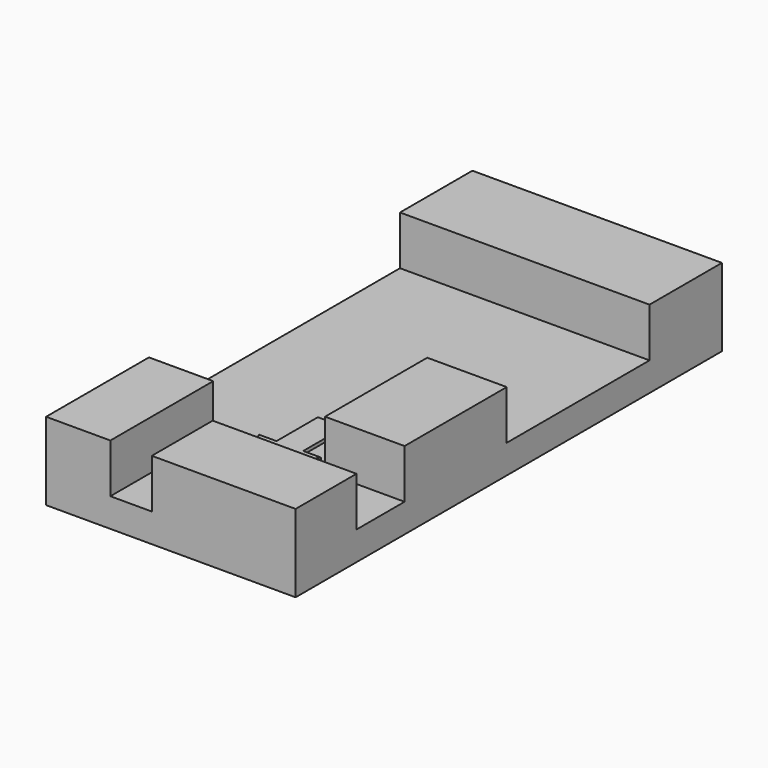
from build123d import *

# Parameters (mm, degrees)
F0_W     = 14.75
F0_H     = 31.5
F1_DEPTH = 1.7
F2_W     = 14.75
F2_H     = 5.35
F2_W_2   = 8.5
F2_H_2   = 4.5
F2_W_3   = 3.8
F2_H_3   = 7.6
F2_W_4   = 4.7
F2_H_4   = 7.55
F3_DEPTH = 2.9
F5_DEPTH = 0.2


with BuildPart() as f1:
    # F0 (on Top) → F1 (new body)
    with BuildSketch(Plane.XY):
        Rectangle(F0_W, F0_H)
    extrude(amount=F1_DEPTH)

    # F2 (on face) → F3 (join)
    with BuildSketch(Plane.XY.offset(1.7)):
        with Locations((0, 13.075)):
            Rectangle(F2_W, F2_H)
        with Locations((3.125, -13.5)):
            Rectangle(F2_W_2, F2_H_2)
        with Locations((-5.475, -11.95)):
            Rectangle(F2_W_3, F2_H_3)
        with Locations((5.025, -3.925)):
            Rectangle(F2_W_4, F2_H_4)
    extrude(amount=F3_DEPTH)

    # F4 (on face) → F5 (join)
    with BuildSketch(Plane.XY.offset(1.7)):
        Polygon((0.789278, -3.898788), (0, -3.898788), (-0.789278, -3.898788), (-0.789278, -6.957673), (-1.8306, -6.957673), (0, -10.08164), (1.8306, -6.957673), (0.789278, -6.957673), align=None)
    extrude(amount=F5_DEPTH)


solid = f1.part
